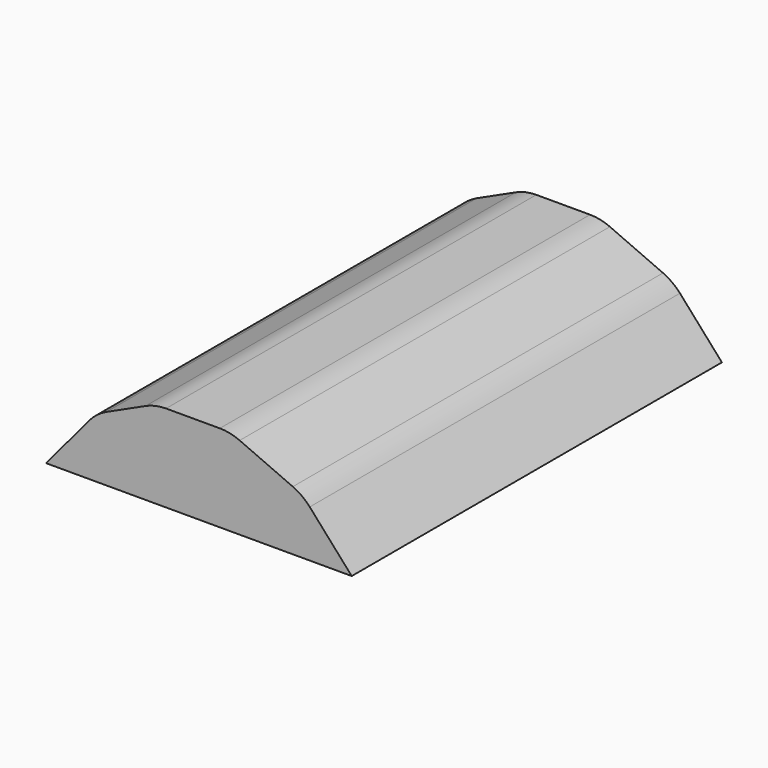
from build123d import *

# Parameters (mm, degrees)
F0_W     = 34.9964526249
F0_H     = 47.8031225502
F1_DEPTH = 24.638
F3_DEPTH = 25.4
F4_DEPTH = 89.408
F5_R     = 5.08
F6_R     = 5.08


with BuildPart() as f1:
    # F0 (on Top) → F1 (new body)
    with BuildSketch(Plane.XY):
        with Locations((18.5126164579, 23.9015612751)):
            Rectangle(F0_W, F0_H)
    extrude(amount=F1_DEPTH)

    # F2 (on face) → F3 (join)
    with BuildSketch(Plane(origin=(0, 47.8031225502, 0), x_dir=(-1, 0, 0), z_dir=(0, 1, 0))):
        Polygon((-36.0108427703, 24.638), (-36.0108427703, 0), (-30.9388898313, 5.7059428655), (-23.4577655792, 9.0027097613), (-15.7230421901, 9.0027097613), (-9.6367038786, 6.21313788), (-4.437955562, 0), (-1.0143901454, 0), (-1.0143901454, 24.638), align=None)
    extrude(amount=F3_DEPTH)

    # F4 (cut): a face of the model
    f4_faces = [f1.faces().sort_by_distance(p)[0] for p in [
        (18.0448789955, 73.2031225502, 14.9299983871),
    ]]
    extrude(f4_faces, amount=-F4_DEPTH, mode=Mode.SUBTRACT)

    # F5
    f5_edges = [f1.edges().sort_by_distance(p)[0] for p in [
        (23.457766, 23.901561, 9.00271),
    ]]
    fillet(f5_edges, radius=F5_R)

    # F6
    f6_edges = [f1.edges().sort_by_distance(p)[0] for p in [
        (15.723042, 23.901561, 9.00271),
        (9.636704, 23.901561, 6.213138),
        (30.93889, 23.901561, 5.705943),
    ]]
    fillet(f6_edges, radius=F6_R)


solid = f1.part
